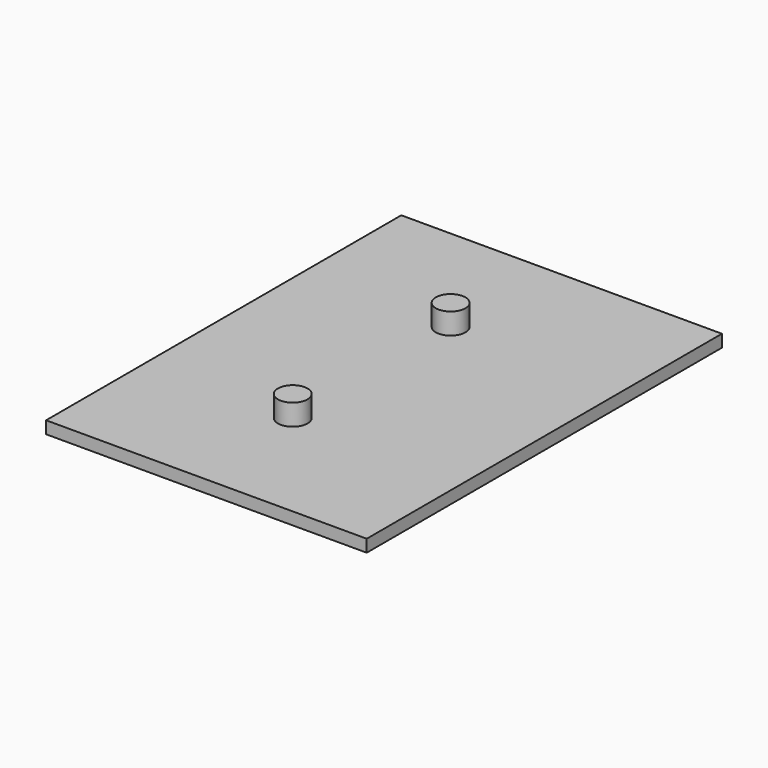
from build123d import *

# Parameters (mm, degrees)
F0_W     = 650
F0_H     = 900
F1_DEPTH = 25
F2_R     = 30
F3_DEPTH = 43
F4_W     = 94.045222
F4_H     = 76.721102
F5_DEPTH = 2


with BuildPart() as f1:
    # F0 (on Top) → F1 (new body)
    with BuildSketch(Plane.XY):
        with Locations((25, 0)):
            Rectangle(F0_W, F0_H)
    extrude(amount=F1_DEPTH)

    # F2 (on face) → F3 (join)
    with BuildSketch(Plane.XY.offset(25)):
        with Locations((0, 200)):
            Circle(F2_R)
        with Locations((0, -200)):
            Circle(F2_R)
    extrude(amount=F3_DEPTH)

    # F4 (on face) → F5 (cut)
    with BuildSketch(Plane(origin=(0, 0, 0), x_dir=(1, 0, 0), z_dir=(0, 0, -1))):
        with Locations((-233.351648, 392.872408)):
            Rectangle(F4_W, F4_H)
        with Locations((-233.351648, 305.872408)):
            Rectangle(F4_W, F4_H)
        with Locations((-233.351648, 218.872408)):
            Rectangle(F4_W, F4_H)
        with Locations((-233.351648, 131.872408)):
            Rectangle(F4_W, F4_H)
        with Locations((-233.351648, 44.872408)):
            Rectangle(F4_W, F4_H)
        with Locations((-233.351648, -42.127592)):
            Rectangle(F4_W, F4_H)
        with Locations((-233.351648, -129.127592)):
            Rectangle(F4_W, F4_H)
        with Locations((-233.351648, -216.127592)):
            Rectangle(F4_W, F4_H)
        with Locations((-233.351648, -303.127592)):
            Rectangle(F4_W, F4_H)
        with Locations((-233.351648, -390.127592)):
            Rectangle(F4_W, F4_H)
        with Locations((-130.351648, 392.872408)):
            Rectangle(F4_W, F4_H)
        with Locations((-130.351648, 305.872408)):
            Rectangle(F4_W, F4_H)
        with Locations((-130.351648, 218.872408)):
            Rectangle(F4_W, F4_H)
        with Locations((-130.351648, 131.872408)):
            Rectangle(F4_W, F4_H)
        with Locations((-130.351648, 44.872408)):
            Rectangle(F4_W, F4_H)
        with Locations((-130.351648, -42.127592)):
            Rectangle(F4_W, F4_H)
        with Locations((-130.351648, -129.127592)):
            Rectangle(F4_W, F4_H)
        with Locations((-130.351648, -216.127592)):
            Rectangle(F4_W, F4_H)
        with Locations((-130.351648, -303.127592)):
            Rectangle(F4_W, F4_H)
        with Locations((-130.351648, -390.127592)):
            Rectangle(F4_W, F4_H)
        with Locations((-27.351648, 392.872408)):
            Rectangle(F4_W, F4_H)
        with Locations((-27.351648, 305.872408)):
            Rectangle(F4_W, F4_H)
        with Locations((-27.351648, 218.872408)):
            Rectangle(F4_W, F4_H)
        with Locations((-27.351648, 131.872408)):
            Rectangle(F4_W, F4_H)
        with Locations((-27.351648, 44.872408)):
            Rectangle(F4_W, F4_H)
        with Locations((-27.351648, -42.127592)):
            Rectangle(F4_W, F4_H)
        with Locations((-27.351648, -129.127592)):
            Rectangle(F4_W, F4_H)
        with Locations((-27.351648, -216.127592)):
            Rectangle(F4_W, F4_H)
        with Locations((-27.351648, -303.127592)):
            Rectangle(F4_W, F4_H)
        with Locations((-27.351648, -390.127592)):
            Rectangle(F4_W, F4_H)
        with Locations((75.648352, 392.872408)):
            Rectangle(F4_W, F4_H)
        with Locations((75.648352, 305.872408)):
            Rectangle(F4_W, F4_H)
        with Locations((75.648352, 218.872408)):
            Rectangle(F4_W, F4_H)
        with Locations((75.648352, 131.872408)):
            Rectangle(F4_W, F4_H)
        with Locations((75.648352, 44.872408)):
            Rectangle(F4_W, F4_H)
        with Locations((75.648352, -42.127592)):
            Rectangle(F4_W, F4_H)
        with Locations((75.648352, -129.127592)):
            Rectangle(F4_W, F4_H)
        with Locations((75.648352, -216.127592)):
            Rectangle(F4_W, F4_H)
        with Locations((75.648352, -303.127592)):
            Rectangle(F4_W, F4_H)
        with Locations((75.648352, -390.127592)):
            Rectangle(F4_W, F4_H)
        with Locations((178.648352, 392.872408)):
            Rectangle(F4_W, F4_H)
        with Locations((178.648352, 305.872408)):
            Rectangle(F4_W, F4_H)
        with Locations((178.648352, 218.872408)):
            Rectangle(F4_W, F4_H)
        with Locations((178.648352, 131.872408)):
            Rectangle(F4_W, F4_H)
        with Locations((178.648352, 44.872408)):
            Rectangle(F4_W, F4_H)
        with Locations((178.648352, -42.127592)):
            Rectangle(F4_W, F4_H)
        with Locations((178.648352, -129.127592)):
            Rectangle(F4_W, F4_H)
        with Locations((178.648352, -216.127592)):
            Rectangle(F4_W, F4_H)
        with Locations((178.648352, -303.127592)):
            Rectangle(F4_W, F4_H)
        with Locations((178.648352, -390.127592)):
            Rectangle(F4_W, F4_H)
        with Locations((281.648352, 392.872408)):
            Rectangle(F4_W, F4_H)
        with Locations((281.648352, 305.872408)):
            Rectangle(F4_W, F4_H)
        with Locations((281.648352, 218.872408)):
            Rectangle(F4_W, F4_H)
        with Locations((281.648352, 131.872408)):
            Rectangle(F4_W, F4_H)
        with Locations((281.648352, 44.872408)):
            Rectangle(F4_W, F4_H)
        with Locations((281.648352, -42.127592)):
            Rectangle(F4_W, F4_H)
        with Locations((281.648352, -129.127592)):
            Rectangle(F4_W, F4_H)
        with Locations((281.648352, -216.127592)):
            Rectangle(F4_W, F4_H)
        with Locations((281.648352, -303.127592)):
            Rectangle(F4_W, F4_H)
        with Locations((281.648352, -390.127592)):
            Rectangle(F4_W, F4_H)
    extrude(amount=-F5_DEPTH, mode=Mode.SUBTRACT)


solid = f1.part
